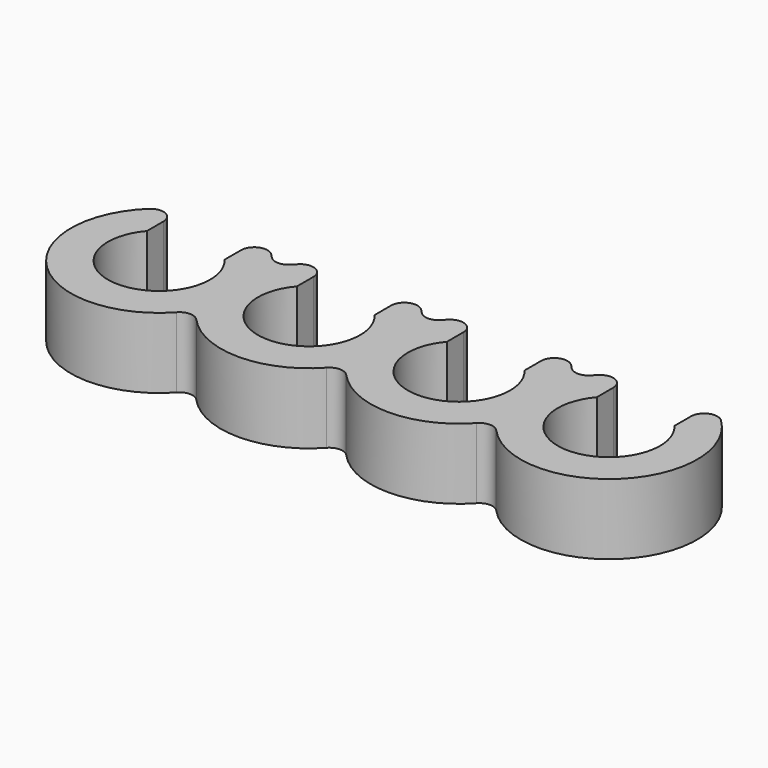
from build123d import *

# Parameters (mm, degrees)
F1_DEPTH = 4
F2_R     = 0.75


with BuildPart() as f1:
    # F0 (on Top) → F1 (new body)
    with BuildSketch(Plane.XY):
        with BuildLine():
            ThreePointArc((2.2, 1.8894443628), (0, -2.9), (-2.2, 1.8894443628))
            Line((-2.2, 1.8894443628), (-2.2, 4.4899888641))
            ThreePointArc((-2.2, 4.4899888641), (-3.7064971339, -3.3558723153), (4.25, -2.6339134382))
            ThreePointArc((4.25, -2.6339134382), (3.5, 0), (4.25, 2.6339134382))
            ThreePointArc((4.25, 2.6339134382), (3.3558723153, 3.7064971339), (2.2, 4.4899888641))
            Line((2.2, 4.4899888641), (2.2, 1.8894443628))
        make_face()
        with BuildLine():
            ThreePointArc((4.25, 2.6339134382), (3.5, 0), (4.25, -2.6339134382))
            ThreePointArc((4.25, -2.6339134382), (5, 0), (4.25, 2.6339134382))
        make_face()
        with BuildLine():
            ThreePointArc((4.25, 2.6339134382), (5, 0), (4.25, -2.6339134382))
            ThreePointArc((4.25, -2.6339134382), (8.5, -5), (12.75, -2.6339134382))
            ThreePointArc((12.75, -2.6339134382), (12, 0), (12.75, 2.6339134382))
            ThreePointArc((12.75, 2.6339134382), (11.8558723153, 3.7064971339), (10.7, 4.4899888641))
            Line((10.7, 4.4899888641), (10.7, 1.8894443628))
            ThreePointArc((10.7, 1.8894443628), (8.5, -2.9), (6.3, 1.8894443628))
            Line((6.3, 1.8894443628), (6.3, 4.4899888641))
            ThreePointArc((6.3, 4.4899888641), (5.1441276847, 3.7064971339), (4.25, 2.6339134382))
        make_face()
        with BuildLine():
            ThreePointArc((12.75, 2.6339134382), (12, 0), (12.75, -2.6339134382))
            ThreePointArc((12.75, -2.6339134382), (13.5, 0), (12.75, 2.6339134382))
        make_face()
        with BuildLine():
            ThreePointArc((12.75, 2.6339134382), (13.5, 0), (12.75, -2.6339134382))
            ThreePointArc((12.75, -2.6339134382), (17, -5), (21.25, -2.6339134382))
            ThreePointArc((21.25, -2.6339134382), (20.5, 0), (21.25, 2.6339134382))
            ThreePointArc((21.25, 2.6339134382), (20.3558723153, 3.7064971339), (19.2, 4.4899888641))
            Line((19.2, 4.4899888641), (19.2, 1.8894443628))
            ThreePointArc((19.2, 1.8894443628), (17, -2.9), (14.8, 1.8894443628))
            Line((14.8, 1.8894443628), (14.8, 4.4899888641))
            ThreePointArc((14.8, 4.4899888641), (13.6441276847, 3.7064971339), (12.75, 2.6339134382))
        make_face()
        with BuildLine():
            ThreePointArc((21.25, 2.6339134382), (20.5, 0), (21.25, -2.6339134382))
            ThreePointArc((21.25, -2.6339134382), (22, 0), (21.25, 2.6339134382))
        make_face()
        with BuildLine():
            ThreePointArc((21.25, 2.6339134382), (22, 0), (21.25, -2.6339134382))
            ThreePointArc((21.25, -2.6339134382), (29.2064971339, -3.3558723153), (27.7, 4.4899888641))
            Line((27.7, 4.4899888641), (27.7, 1.8894443628))
            ThreePointArc((27.7, 1.8894443628), (25.5, -2.9), (23.3, 1.8894443628))
            Line((23.3, 1.8894443628), (23.3, 4.4899888641))
            ThreePointArc((23.3, 4.4899888641), (22.1441276847, 3.7064971339), (21.25, 2.6339134382))
        make_face()
    extrude(amount=F1_DEPTH)

    # F2
    f2_edges = [f1.edges().sort_by_distance(p)[0] for p in [
        (-2.2, 4.489989, 2),
        (2.2, 4.489989, 2),
        (6.3, 4.489989, 2),
        (10.7, 4.489989, 2),
        (14.8, 4.489989, 2),
        (19.2, 4.489989, 2),
        (23.3, 4.489989, 2),
        (27.7, 4.489989, 2),
        (21.25, 2.633913, 2),
        (12.75, 2.633913, 2),
        (4.25, 2.633913, 2),
        (21.25, -2.633913, 2),
        (12.75, -2.633913, 2),
        (4.25, -2.633913, 2),
    ]]
    fillet(f2_edges, radius=F2_R)


solid = f1.part
